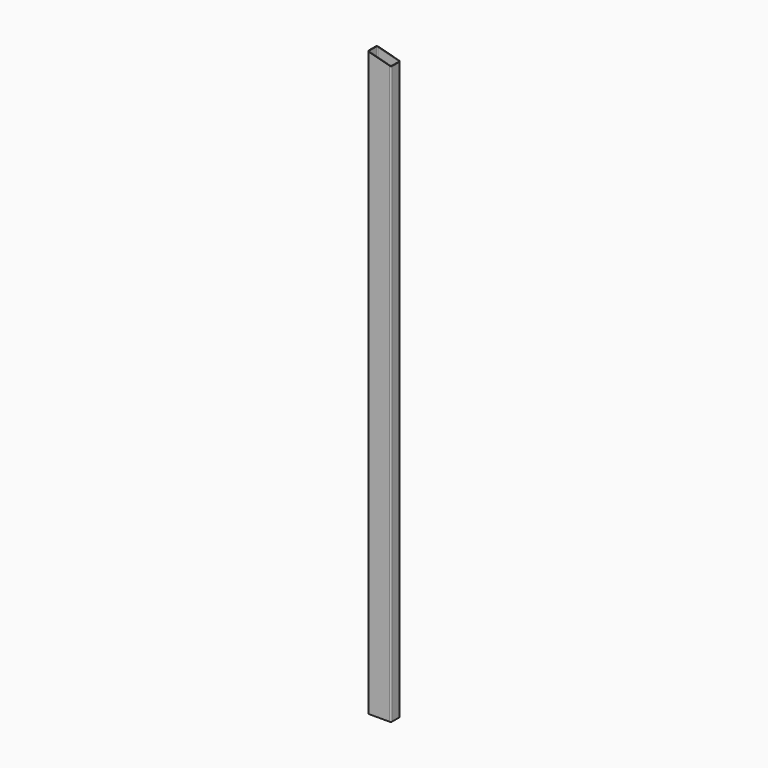
from build123d import *

# Parameters (mm, degrees)
F1_DEPTH = 1250
F3_DEPTH = 50.001


with BuildPart() as f1:
    # F0 (on Top) → F1 (new body, symmetric)
    with BuildSketch(Plane.XY):
        with BuildLine():
            Line((44, 25), (-44, 25))
            ThreePointArc((-44, 25), (-48.2426406871, 23.2426406871), (-50, 19))
            Line((-50, 19), (-50, -19))
            ThreePointArc((-50, -19), (-48.2426406871, -23.2426406871), (-44, -25))
            Line((-44, -25), (44, -25))
            ThreePointArc((44, -25), (48.2426406871, -23.2426406871), (50, -19))
            Line((50, -19), (50, 19))
            ThreePointArc((50, 19), (48.2426406871, 23.2426406871), (44, 25))
        make_face()
        with BuildLine():
            ThreePointArc((-48, 19), (-46.8284271247, 21.8284271247), (-44, 23))
            Line((-44, 23), (44, 23))
            ThreePointArc((44, 23), (46.8284271247, 21.8284271247), (48, 19))
            Line((48, 19), (48, -19))
            ThreePointArc((48, -19), (46.8284271247, -21.8284271247), (44, -23))
            Line((44, -23), (-44, -23))
            ThreePointArc((-44, -23), (-46.8284271247, -21.8284271247), (-48, -19))
            Line((-48, -19), (-48, 19))
        make_face(mode=Mode.SUBTRACT)
    extrude(amount=F1_DEPTH, both=True)

    # F2 (on face) → F3 (cut, through all)
    with BuildSketch(Plane.XZ.offset(25)):
        Polygon((50, 1223.2050807569), (50, 1250), (44, 1250), (44, 1224.8127759115), align=None)
        Polygon((44, 1224.8127759115), (44, 1250), (-44, 1250), (-44, 1248.3923048454), align=None)
        Polygon((-44, 1248.3923048454), (-44, 1250), (-50, 1250), align=None)
    extrude(amount=-F3_DEPTH, mode=Mode.SUBTRACT)


solid = f1.part
